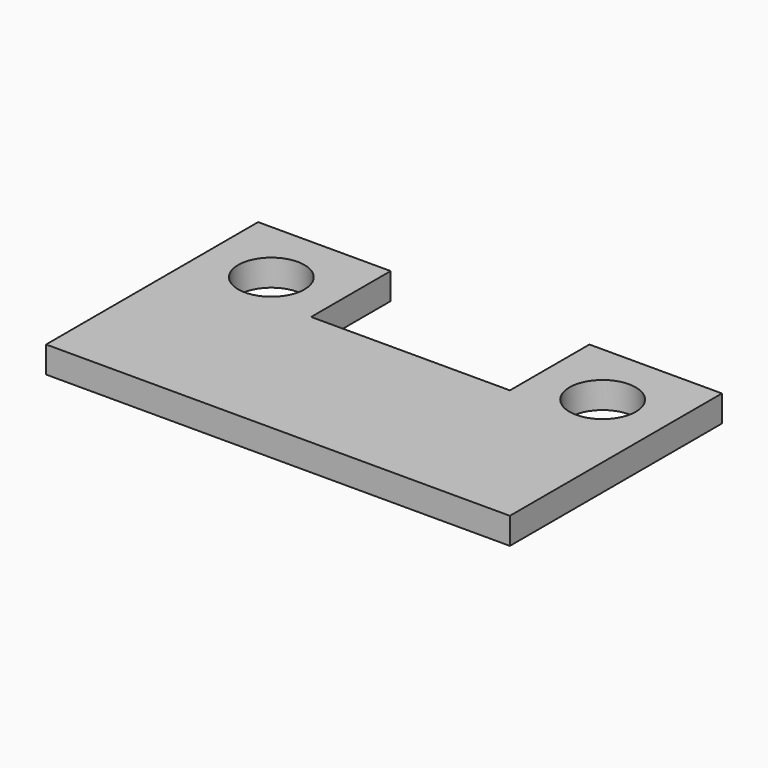
from build123d import *

# Parameters (mm, degrees)
CYLINDER001_R     = 5
CYLINDER001_DEPTH = 10
CYLINDER_R        = 5
CYLINDER_DEPTH    = 10
BOX001_W          = 30
BOX001_H          = 15
BOX001_DEPTH      = 10
BOX_W             = 70
BOX_H             = 40
BOX_DEPTH         = 4


with BuildPart() as cylinder001:
    # Cylinder001 → Cylinder001 (new body)
    with BuildSketch(Plane(origin=(60, 30, 0), x_dir=(1, 0, 0), z_dir=(0, 0, 1))):
        Circle(CYLINDER001_R)
    extrude(amount=CYLINDER001_DEPTH)


with BuildPart() as cylinder:
    # Cylinder → Cylinder (new body)
    with BuildSketch(Plane(origin=(10, 30, 0), x_dir=(1, 0, 0), z_dir=(0, 0, 1))):
        Circle(CYLINDER_R)
    extrude(amount=CYLINDER_DEPTH)


with BuildPart() as cube001:
    # Box001 → Box001 (new body)
    with BuildSketch(Plane(origin=(20, 25, 0), x_dir=(1, 0, 0), z_dir=(0, 0, 1))):
        with Locations((15, 7.5)):
            Rectangle(BOX001_W, BOX001_H)
    extrude(amount=BOX001_DEPTH)


with BuildPart() as cut002:
    # Box → Box (new body)
    with BuildSketch(Plane.XY):
        with Locations((35, 20)):
            Rectangle(BOX_W, BOX_H)
    extrude(amount=BOX_DEPTH)

    # Cut: cut Cube001
    add(cube001.part, mode=Mode.SUBTRACT)

    # Cut001: cut Cylinder
    add(cylinder.part, mode=Mode.SUBTRACT)

    # Cut002: cut Cylinder001
    add(cylinder001.part, mode=Mode.SUBTRACT)


solid = cut002.part
